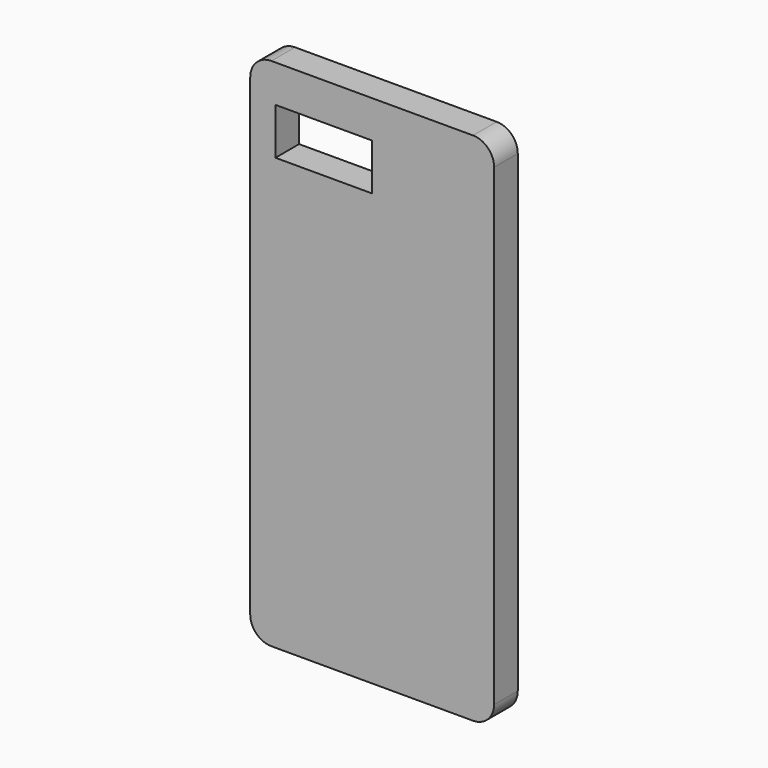
from build123d import *

# Parameters (mm, degrees)
F0_W     = 58.6
F0_H     = 123.8
F0_W_2   = 23.2377052307
F0_H_2   = 11.1885257065
F1_DEPTH = 3.55
F2_T     = -2.54
F3_R     = 5.08


with BuildPart() as f1:
    # F0 (on Front) → F1 (new body, symmetric)
    with BuildSketch(Plane.XZ):
        Rectangle(F0_W, F0_H)
        with Locations((-11.6188526154, 47.3360661417)):
            Rectangle(F0_W_2, F0_H_2, mode=Mode.SUBTRACT)
    extrude(amount=F1_DEPTH, both=True)

    # F2
    f2_openings = [f1.faces().sort_by_distance(p)[0] for p in [
        (0.431878, 3.55, -1.759504),
    ]]
    offset(amount=F2_T, openings=f2_openings, kind=Kind.INTERSECTION)

    # F3
    f3_edges = [f1.edges().sort_by_distance(p)[0] for p in [
        (29.3, 0, 61.9),
        (-29.3, 0, 61.9),
        (29.3, 0, -61.9),
        (-29.3, 0, -61.9),
    ]]
    fillet(f3_edges, radius=F3_R)


solid = f1.part
